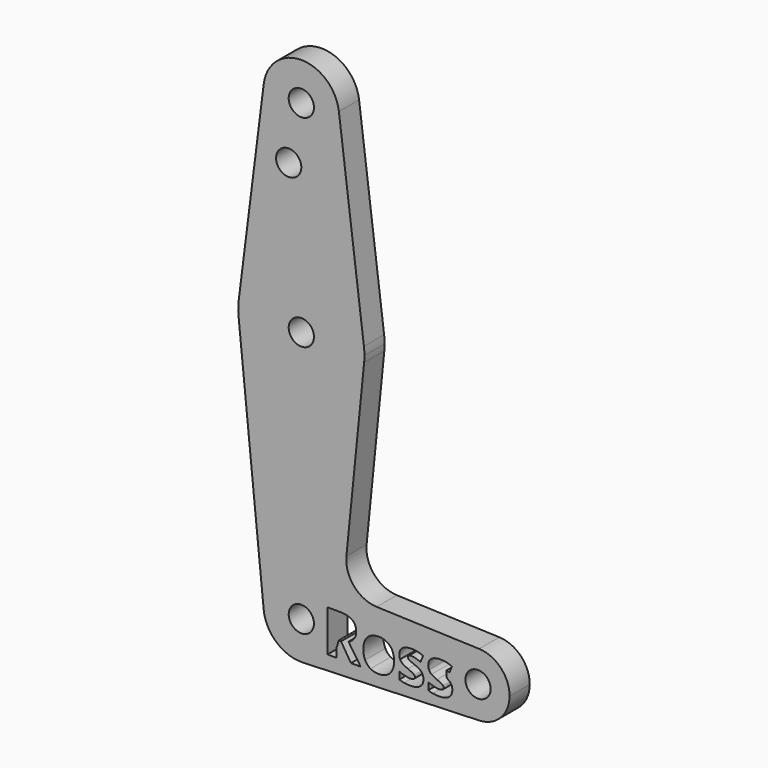
from build123d import *

# Parameters (mm, degrees)
F0_R     = 3.175
F1_DEPTH = 6.35


with BuildPart() as f1:
    # F0 (on Front) → F1 (new body)
    with BuildSketch(Plane.XZ):
        with BuildLine():
            ThreePointArc((-9.4502929642, 115.490625), (-0.596483242, 104.7936951058), (9.525, 114.3))
            ThreePointArc((9.525, 114.3), (9.5063048942, 114.896483242), (9.4502929642, 115.490625))
            ThreePointArc((9.4502929642, 115.490625), (0, 123.825), (-9.4502929642, 115.490625))
        make_face()
        with Locations((0, 114.3)):
            Circle(F0_R, mode=Mode.SUBTRACT)
        with BuildLine():
            ThreePointArc((9.4502929642, 115.490625), (9.5063048942, 114.896483242), (9.525, 114.3))
            ThreePointArc((9.525, 114.3), (-0.596483242, 104.7936951058), (-9.4502929642, 115.490625))
            Line((-9.4502929642, 115.490625), (-15.7504882737, 65.484375))
            ThreePointArc((-15.7504882737, 65.484375), (0, 79.375), (15.7504882737, 65.484375))
            Line((15.7504882737, 65.484375), (9.4502929642, 115.490625))
        make_face()
        with Locations((-3.175, 100.0252)):
            Circle(F0_R, mode=Mode.SUBTRACT)
        with BuildLine():
            ThreePointArc((15.875, 63.5), (15.8438414904, 64.4941387366), (15.7504882737, 65.484375))
            ThreePointArc((15.7504882737, 65.484375), (0, 79.375), (-15.7504882737, 65.484375))
            ThreePointArc((-15.7504882737, 65.484375), (-15.8737438155, 63.6997054867), (-15.7954255641, 61.9125))
            ThreePointArc((-15.7954255641, 61.9125), (0, 47.625), (15.7954255641, 61.9125))
            ThreePointArc((15.7954255641, 61.9125), (15.8550939106, 62.7052534459), (15.875, 63.5))
        make_face()
        with Locations((0, 63.5)):
            Circle(F0_R, mode=Mode.SUBTRACT)
        with BuildLine():
            ThreePointArc((15.7954255641, 61.9125), (0, 47.625), (-15.7954255641, 61.9125))
            Line((-15.7954255641, 61.9125), (-9.4772553384, -0.9525))
            ThreePointArc((-9.4772553384, -0.9525), (-2.9086007282, 9.0700422713), (8.2637248464, 4.7367158098))
            Line((8.2637248464, 4.7367158098), (9.6356009141, 4.7367158098))
            add(Edge.make_bspline(
                [(9.6356009141, 4.7367158098), (11.7663107435, 4.7367158098), (12.787085356, 3.9617044018)],
                knots=[0, 0, 0, 1, 1, 1], degree=2))
            add(Edge.make_bspline(
                [(12.787085356, 3.9617044018), (13.8078599685, 3.1866929939), (13.8078599685, 1.6069499766)],
                knots=[0, 0, 0, 1, 1, 1], degree=2))
            add(Edge.make_bspline(
                [(13.8078599685, 1.6069499766), (13.8078599685, 0.6856237306), (13.3014734586, -0.0322334437)],
                knots=[0, 0, 0, 1, 1, 1], degree=2))
            add(Edge.make_bspline(
                [(13.3014734586, -0.0322334437), (12.7950869487, -0.750090618), (11.8646160254, -1.1570287614)],
                knots=[0, 0, 0, 1, 1, 1], degree=2))
            add(Edge.make_bspline(
                [(11.8646160254, -1.1570287614), (14.2239427893, -4.6800157219), (14.9372276249, -5.7087919271)],
                knots=[0, 0, 0, 1, 1, 1], degree=2))
            Line((14.9372276249, -5.7087919271), (12.4795955791, -5.7087919271))
            Line((12.4795955791, -5.7087919271), (9.9853848239, -1.7011370655))
            Line((9.9853848239, -1.7011370655), (9.371859884, -1.7011370655))
            ThreePointArc((9.371859884, -1.7011370655), (9.1407187187, -2.6782244688), (8.8080076112, -3.625551947))
            Line((8.8080076112, -3.625551947), (8.8080076112, -5.7087919271))
            Line((8.8080076112, -5.7087919271), (7.6246521057, -5.7087919271))
            ThreePointArc((7.6246521057, -5.7087919271), (4.4146242732, -8.4401846856), (0.3401785714, -9.5189234444))
            Line((0.3401785714, -9.5189234444), (44.7334821429, -7.9324362036))
            ThreePointArc((44.7334821429, -7.9324362036), (40.798176846, -7.0475594288), (37.8058897236, -4.3427761726))
            add(Edge.make_bspline(
                [(37.8058897236, -4.3427761726), (37.5938009855, -4.8615919986), (37.1325027098, -5.2092639252)],
                knots=[0.4597648621, 0.4597648621, 0.4597648621, 1, 1, 1], degree=2))
            add(Edge.make_bspline(
                [(37.1325027098, -5.2092639252), (36.2786184595, -5.8528205958), (34.5777084669, -5.8528205958)],
                knots=[0, 0, 0, 1, 1, 1], degree=2))
            add(Edge.make_bspline(
                [(34.5777084669, -5.8528205958), (33.7066779465, -5.8528205958), (33.0916983927, -5.7339397899)],
                knots=[0, 0, 0, 1, 1, 1], degree=2))
            add(Edge.make_bspline(
                [(33.0916983927, -5.7339397899), (32.4767188389, -5.6150589839), (31.9417552122, -5.3864420494)],
                knots=[0, 0, 0, 1, 1, 1], degree=2))
            Line((31.9417552122, -5.3864420494), (31.9417552122, -3.587226775))
            add(Edge.make_bspline(
                [(31.9417552122, -3.587226775), (32.5475900886, -3.8729979431), (33.3088844805, -4.0661792528)],
                knots=[0, 0, 0, 1, 1, 1], degree=2))
            add(Edge.make_bspline(
                [(33.3088844805, -4.0661792528), (34.0701788723, -4.2593605624), (34.6485797166, -4.2593605624)],
                knots=[0, 0, 0, 1, 1, 1], degree=2))
            add(Edge.make_bspline(
                [(34.6485797166, -4.2593605624), (35.8351016066, -4.2593605624), (35.8351016066, -3.5735097589)],
                knots=[0, 0, 0, 1, 1, 1], degree=2))
            add(Edge.make_bspline(
                [(35.8351016066, -3.5735097589), (35.8351016066, -3.315172623), (35.6773559218, -3.1539976841)],
                knots=[0, 0, 0, 1, 1, 1], degree=2))
            add(Edge.make_bspline(
                [(35.6773559218, -3.1539976841), (35.519610237, -2.9928227453), (35.1343907024, -2.7893536736)],
                knots=[0, 0, 0, 1, 1, 1], degree=2))
            add(Edge.make_bspline(
                [(35.1343907024, -2.7893536736), (34.7491711678, -2.5858846019), (34.1067575819, -2.3161166192)],
                knots=[0, 0, 0, 1, 1, 1], degree=2))
            add(Edge.make_bspline(
                [(34.1067575819, -2.3161166192), (33.1854313359, -1.929754), (32.752202245, -1.6005456143)],
                knots=[0, 0, 0, 1, 1, 1], degree=2))
            add(Edge.make_bspline(
                [(32.752202245, -1.6005456143), (32.3189731542, -1.2713372286), (32.1235056752, -0.8461097305)],
                knots=[0, 0, 0, 1, 1, 1], degree=2))
            add(Edge.make_bspline(
                [(32.1235056752, -0.8461097305), (31.9280381962, -0.4208822323), (31.9280381962, 0.1986696601)],
                knots=[0, 0, 0, 1, 1, 1], degree=2))
            add(Edge.make_bspline(
                [(31.9280381962, 0.1986696601), (31.9280381962, 1.2640245749), (32.752202245, 1.8458546731)],
                knots=[0, 0, 0, 1, 1, 1], degree=2))
            add(Edge.make_bspline(
                [(32.752202245, 1.8458546731), (33.5763662938, 2.4276847714), (35.0920965695, 2.4276847714)],
                knots=[0, 0, 0, 1, 1, 1], degree=2))
            add(Edge.make_bspline(
                [(35.0920965695, 2.4276847714), (35.9713761857, 2.4276847714), (36.8217778882, 2.1941134118)],
                knots=[0, 0, 0, 0.6095218083, 0.6095218083, 0.6095218083], degree=2))
            ThreePointArc((36.8217778882, 2.1941134118), (39.7897008231, 6.4253807538), (44.7334821429, 7.9324362036))
            Line((44.7334821429, 7.9324362036), (18.9676000005, 8.8532337108))
            ThreePointArc((18.9676000005, 8.8532337108), (13.2611998974, 11.5713591498), (11.3411865923, 17.5933818124))
            Line((11.3411865923, 17.5933818124), (15.7954255641, 61.9125))
        make_face()
        with BuildLine():
            add(Edge.make_bspline(
                [(22.8679490824, 0.492442421), (23.3388999674, -0.4437439258), (23.3388999674, -1.7011370655)],
                knots=[0, 0, 0, 1, 1, 1], degree=2))
            add(Edge.make_bspline(
                [(23.3388999674, -1.7011370655), (23.3388999674, -3.6512395167), (22.3101237622, -4.7520300562)],
                knots=[0, 0, 0, 1, 1, 1], degree=2))
            add(Edge.make_bspline(
                [(22.3101237622, -4.7520300562), (21.281347557, -5.8528205958), (19.445553573, -5.8528205958)],
                knots=[0, 0, 0, 1, 1, 1], degree=2))
            add(Edge.make_bspline(
                [(19.445553573, -5.8528205958), (18.2956103926, -5.8528205958), (17.4165782794, -5.3487202552)],
                knots=[0, 0, 0, 1, 1, 1], degree=2))
            add(Edge.make_bspline(
                [(17.4165782794, -5.3487202552), (16.5375461663, -4.8446199147), (16.0665952813, -3.9015750599)],
                knots=[0, 0, 0, 1, 1, 1], degree=2))
            add(Edge.make_bspline(
                [(16.0665952813, -3.9015750599), (15.5956443962, -2.9585302052), (15.5956443962, -1.7011370655)],
                knots=[0, 0, 0, 1, 1, 1], degree=2))
            add(Edge.make_bspline(
                [(15.5956443962, -1.7011370655), (15.5956443962, 0.2558238938), (16.6164190087, 1.3417543326)],
                knots=[0, 0, 0, 1, 1, 1], degree=2))
            add(Edge.make_bspline(
                [(16.6164190087, 1.3417543326), (17.6371936212, 2.4276847714), (19.4889907906, 2.4276847714)],
                knots=[0, 0, 0, 1, 1, 1], degree=2))
            add(Edge.make_bspline(
                [(19.4889907906, 2.4276847714), (20.6389339711, 2.4276847714), (21.5179660842, 1.9281567696)],
                knots=[0, 0, 0, 1, 1, 1], degree=2))
            add(Edge.make_bspline(
                [(21.5179660842, 1.9281567696), (22.3969981973, 1.4286287677), (22.8679490824, 0.492442421)],
                knots=[0, 0, 0, 1, 1, 1], degree=2))
        make_face(mode=Mode.SUBTRACT)
        with BuildLine():
            add(Edge.make_bspline(
                [(30.5060408636, -2.3149735346), (30.714082274, -2.7436302867), (30.714082274, -3.3357481471)],
                knots=[0, 0, 0, 1, 1, 1], degree=2))
            add(Edge.make_bspline(
                [(30.714082274, -3.3357481471), (30.714082274, -4.5657072546), (29.8601980237, -5.2092639252)],
                knots=[0, 0, 0, 1, 1, 1], degree=2))
            add(Edge.make_bspline(
                [(29.8601980237, -5.2092639252), (29.0063137734, -5.8528205958), (27.3054037808, -5.8528205958)],
                knots=[0, 0, 0, 1, 1, 1], degree=2))
            add(Edge.make_bspline(
                [(27.3054037808, -5.8528205958), (26.4343732604, -5.8528205958), (25.8193937066, -5.7339397899)],
                knots=[0, 0, 0, 1, 1, 1], degree=2))
            add(Edge.make_bspline(
                [(25.8193937066, -5.7339397899), (25.2044141528, -5.6150589839), (24.6694505261, -5.3864420494)],
                knots=[0, 0, 0, 1, 1, 1], degree=2))
            Line((24.6694505261, -5.3864420494), (24.6694505261, -3.587226775))
            add(Edge.make_bspline(
                [(24.6694505261, -3.587226775), (25.2752854025, -3.8729979431), (26.0365797944, -4.0661792528)],
                knots=[0, 0, 0, 1, 1, 1], degree=2))
            add(Edge.make_bspline(
                [(26.0365797944, -4.0661792528), (26.7978741862, -4.2593605624), (27.3762750305, -4.2593605624)],
                knots=[0, 0, 0, 1, 1, 1], degree=2))
            add(Edge.make_bspline(
                [(27.3762750305, -4.2593605624), (28.5627969205, -4.2593605624), (28.5627969205, -3.5735097589)],
                knots=[0, 0, 0, 1, 1, 1], degree=2))
            add(Edge.make_bspline(
                [(28.5627969205, -3.5735097589), (28.5627969205, -3.315172623), (28.4050512357, -3.1539976841)],
                knots=[0, 0, 0, 1, 1, 1], degree=2))
            add(Edge.make_bspline(
                [(28.4050512357, -3.1539976841), (28.2473055509, -2.9928227453), (27.8620860163, -2.7893536736)],
                knots=[0, 0, 0, 1, 1, 1], degree=2))
            add(Edge.make_bspline(
                [(27.8620860163, -2.7893536736), (27.4768664817, -2.5858846019), (26.8344528957, -2.3161166192)],
                knots=[0, 0, 0, 1, 1, 1], degree=2))
            add(Edge.make_bspline(
                [(26.8344528957, -2.3161166192), (25.9131266498, -1.929754), (25.4798975589, -1.6005456143)],
                knots=[0, 0, 0, 1, 1, 1], degree=2))
            add(Edge.make_bspline(
                [(25.4798975589, -1.6005456143), (25.046668468, -1.2713372286), (24.851200989, -0.8461097305)],
                knots=[0, 0, 0, 1, 1, 1], degree=2))
            add(Edge.make_bspline(
                [(24.851200989, -0.8461097305), (24.6557335101, -0.4208822323), (24.6557335101, 0.1986696601)],
                knots=[0, 0, 0, 1, 1, 1], degree=2))
            add(Edge.make_bspline(
                [(24.6557335101, 0.1986696601), (24.6557335101, 1.2640245749), (25.4798975589, 1.8458546731)],
                knots=[0, 0, 0, 1, 1, 1], degree=2))
            add(Edge.make_bspline(
                [(25.4798975589, 1.8458546731), (26.3040616077, 2.4276847714), (27.8197918834, 2.4276847714)],
                knots=[0, 0, 0, 1, 1, 1], degree=2))
            add(Edge.make_bspline(
                [(27.8197918834, 2.4276847714), (29.26236474, 2.4276847714), (30.6272078389, 1.7989882016)],
                knots=[0, 0, 0, 1, 1, 1], degree=2))
            Line((30.6272078389, 1.7989882016), (29.9710772369, 0.2283898616))
            add(Edge.make_bspline(
                [(29.9710772369, 0.2283898616), (29.3698146992, 0.4844408283), (28.8485680886, 0.6490450211)],
                knots=[0, 0, 0, 1, 1, 1], degree=2))
            add(Edge.make_bspline(
                [(28.8485680886, 0.6490450211), (28.327321478, 0.8136492139), (27.7832131739, 0.8136492139)],
                knots=[0, 0, 0, 1, 1, 1], degree=2))
            add(Edge.make_bspline(
                [(27.7832131739, 0.8136492139), (26.8184497103, 0.8136492139), (26.8184497103, 0.2924026033)],
                knots=[0, 0, 0, 1, 1, 1], degree=2))
            add(Edge.make_bspline(
                [(26.8184497103, 0.2924026033), (26.8184497103, -0.0002270729), (27.1293687412, -0.2151269913)],
                knots=[0, 0, 0, 1, 1, 1], degree=2))
            add(Edge.make_bspline(
                [(27.1293687412, -0.2151269913), (27.4402877721, -0.4300269097), (28.4919256708, -0.8506820692)],
                knots=[0, 0, 0, 1, 1, 1], degree=2))
            add(Edge.make_bspline(
                [(28.4919256708, -0.8506820692), (29.4269689329, -1.2301861804), (29.8624841931, -1.5582514814)],
                knots=[0, 0, 0, 1, 1, 1], degree=2))
            add(Edge.make_bspline(
                [(29.8624841931, -1.5582514814), (30.2979994533, -1.8863167824), (30.5060408636, -2.3149735346)],
                knots=[0, 0, 0, 1, 1, 1], degree=2))
        make_face(mode=Mode.SUBTRACT)
        with BuildLine():
            ThreePointArc((8.2637248464, 4.7367158098), (-2.9086007282, 9.0700422713), (-9.4772553384, -0.9525))
            ThreePointArc((-9.4772553384, -0.9525), (-6.2623833816, -7.1769199091), (0.3401785714, -9.5189234444))
            ThreePointArc((0.3401785714, -9.5189234444), (4.4146242732, -8.4401846856), (7.6246521057, -5.7087919271))
            Line((7.6246521057, -5.7087919271), (6.592709516, -5.7087919271))
            Line((6.592709516, -5.7087919271), (6.592709516, 4.7367158098))
            Line((6.592709516, 4.7367158098), (8.2637248464, 4.7367158098))
        make_face()
        Circle(F0_R, mode=Mode.SUBTRACT)
        with BuildLine():
            ThreePointArc((37.8058897236, -4.3427761726), (40.798176846, -7.0475594288), (44.7334821429, -7.9324362036))
            ThreePointArc((44.7334821429, -7.9324362036), (50.1620069047, -5.5115227815), (52.3875, 0))
            ThreePointArc((52.3875, 0), (50.1620069047, 5.5115227815), (44.7334821429, 7.9324362036))
            ThreePointArc((44.7334821429, 7.9324362036), (39.7897008231, 6.4253807538), (36.8217778882, 2.1941134118))
            add(Edge.make_bspline(
                [(36.8217778882, 2.1941134118), (37.3665710598, 2.0444805013), (37.899512525, 1.7989882016)],
                knots=[0.6095218083, 0.6095218083, 0.6095218083, 1, 1, 1], degree=2))
            Line((37.899512525, 1.7989882016), (37.2433819231, 0.2283898616))
            add(Edge.make_bspline(
                [(37.2433819231, 0.2283898616), (36.8707985538, 0.3870565436), (36.5289404103, 0.5106086819)],
                knots=[0, 0, 0, 0.6196683576, 0.6196683576, 0.6196683576], degree=2))
            ThreePointArc((36.5289404103, 0.5106086819), (36.5208799375, -0.3646385665), (36.6092369627, -1.2354518377))
            add(Edge.make_bspline(
                [(36.6092369627, -1.2354518377), (36.9282084228, -1.4026383817), (37.1347888792, -1.5582514814)],
                knots=[0.5256642527, 0.5256642527, 0.5256642527, 1, 1, 1], degree=2))
            add(Edge.make_bspline(
                [(37.1347888792, -1.5582514814), (37.5703041394, -1.8863167824), (37.7783455498, -2.3149735346)],
                knots=[0, 0, 0, 1, 1, 1], degree=2))
            add(Edge.make_bspline(
                [(37.7783455498, -2.3149735346), (37.9863869601, -2.7436302867), (37.9863869601, -3.3357481471)],
                knots=[0, 0, 0, 1, 1, 1], degree=2))
            add(Edge.make_bspline(
                [(37.9863869601, -3.3357481471), (37.9863869601, -3.9012401266), (37.8058897236, -4.3427761726)],
                knots=[0, 0, 0, 0.4597648621, 0.4597648621, 0.4597648621], degree=2))
        make_face()
        with Locations((44.45, 0)):
            Circle(F0_R, mode=Mode.SUBTRACT)
    extrude(amount=F1_DEPTH)


solid = f1.part
